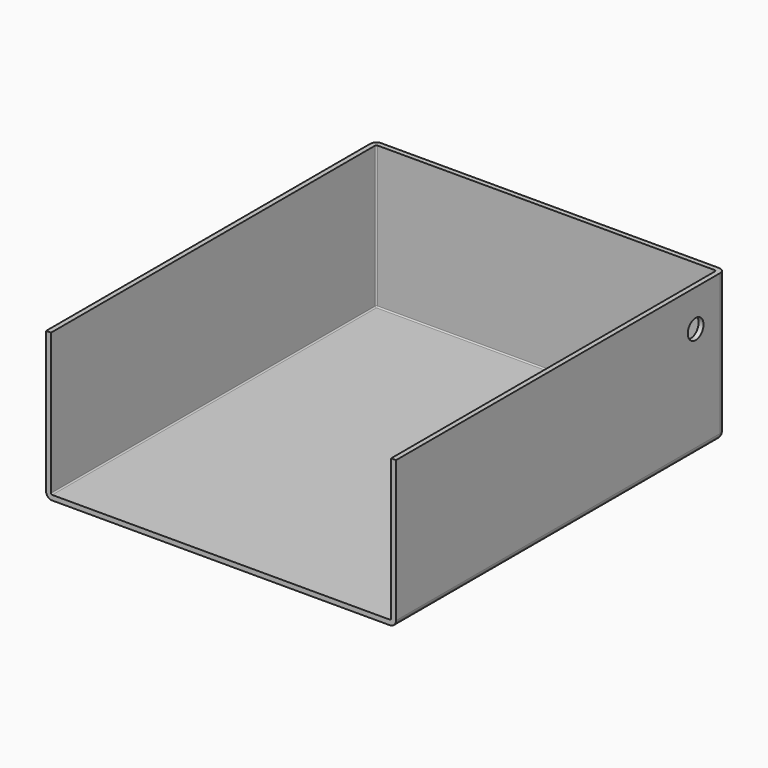
from build123d import *

# Parameters (mm, degrees)
F0_W     = 285
F0_H     = 335
F1_DEPTH = 120
F2_R     = 5
F3_T     = -4
F5_D     = 16
F5_DEPTH = 10


with BuildPart() as f1:
    # F0 (on Top) → F1 (new body)
    with BuildSketch(Plane.XY):
        with Locations((-80.726171, 114.31913)):
            Rectangle(F0_W, F0_H)
    extrude(amount=F1_DEPTH)

    # F2
    f2_edges = [f1.edges().sort_by_distance(p)[0] for p in [
        (-223.226171, 114.31913, 0),
        (-80.726171, 281.81913, 0),
        (61.773829, 114.31913, 0),
        (-223.226171, 281.81913, 60),
        (61.773829, 281.81913, 60),
    ]]
    fillet(f2_edges, radius=F2_R)

    # F3
    f3_openings = [f1.faces().sort_by_distance(p)[0] for p in [
        (-80.726171, 114.300429, 120),
        (-80.726171, -53.18087, 60.01848),
    ]]
    offset(amount=F3_T, openings=f3_openings)

    # F5
    with Locations(Plane.YZ.offset(61.773829)):
        with Locations((251.81913, 90)):
            Hole(F5_D / 2, depth=F5_DEPTH)


solid = f1.part
